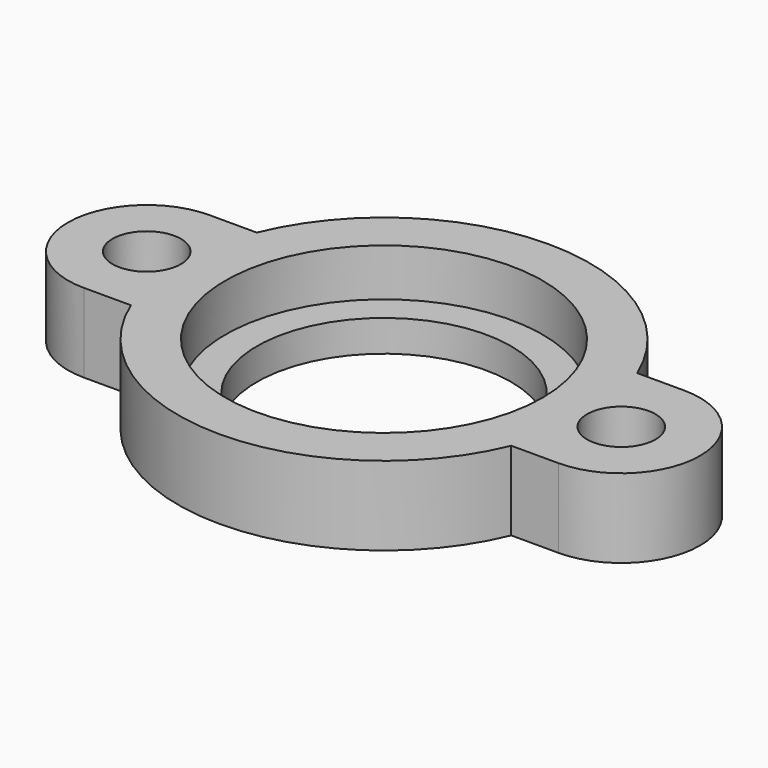
from build123d import *

# Parameters (mm, degrees)
F0_R     = 1.7272
F0_R_2   = 6.4135
F1_DEPTH = 1.5875
F2_R     = 1.7272
F2_R_2   = 8.001
F3_DEPTH = 2.396515


with BuildPart() as f1:
    # F0 (on Top) → F1 (new body)
    with BuildSketch(Plane.XY):
        with BuildLine():
            Line((2.375995, 3.96875), (0, 3.96875))
            ThreePointArc((0, 3.96875), (-3.96875, 0), (0, -3.96875))
            Line((0, -3.96875), (2.375995, -3.96875))
            ThreePointArc((2.375995, -3.96875), (11.96975, -10.38225), (21.563505, -3.96875))
            Line((21.563505, -3.96875), (23.9395, -3.96875))
            ThreePointArc((23.9395, -3.96875), (27.90825, 0), (23.9395, 3.96875))
            Line((23.9395, 3.96875), (21.563505, 3.96875))
            ThreePointArc((21.563505, 3.96875), (11.96975, 10.38225), (2.375995, 3.96875))
        make_face()
        Circle(F0_R, mode=Mode.SUBTRACT)
        with Locations((11.96975, 0)):
            Circle(F0_R_2, mode=Mode.SUBTRACT)
        with Locations((23.9395, 0)):
            Circle(F0_R, mode=Mode.SUBTRACT)
    extrude(amount=F1_DEPTH)

    # F2 (on face) → F3 (join)
    with BuildSketch(Plane.XY.offset(1.5875)):
        with BuildLine():
            Line((23.9395, 3.96875), (21.563505, 3.96875))
            ThreePointArc((21.563505, 3.96875), (11.96975, 10.38225), (2.375995, 3.96875))
            Line((2.375995, 3.96875), (0, 3.96875))
            ThreePointArc((0, 3.96875), (-3.96875, 0), (0, -3.96875))
            Line((0, -3.96875), (2.375995, -3.96875))
            ThreePointArc((2.375995, -3.96875), (11.96975, -10.38225), (21.563505, -3.96875))
            Line((21.563505, -3.96875), (23.9395, -3.96875))
            ThreePointArc((23.9395, -3.96875), (27.90825, 0), (23.9395, 3.96875))
        make_face()
        Circle(F2_R, mode=Mode.SUBTRACT)
        with Locations((11.96975, 0)):
            Circle(F2_R_2, mode=Mode.SUBTRACT)
        with Locations((23.9395, 0)):
            Circle(F2_R, mode=Mode.SUBTRACT)
    extrude(amount=F3_DEPTH)


solid = f1.part
